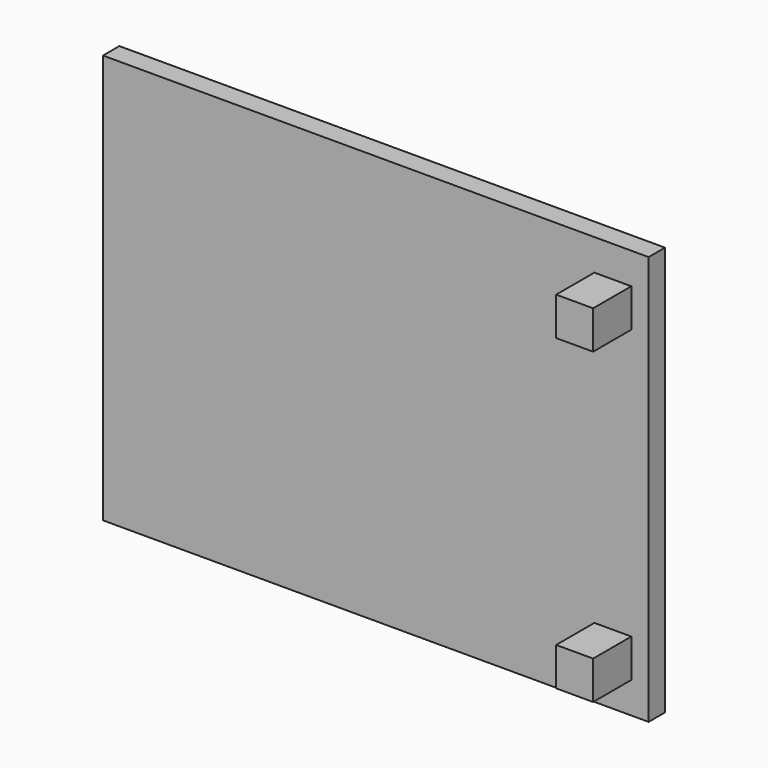
from build123d import *

# Parameters (mm, degrees)
F0_W     = 203.2
F0_H     = 152.4
F1_DEPTH = 7.62
F2_W     = 13.762258
F2_H     = 14.236811
F3_DEPTH = 17.78


with BuildPart() as f1:
    # F0 (on Front) → F1 (new body)
    with BuildSketch(Plane.XZ):
        Rectangle(F0_W, F0_H)
    extrude(amount=F1_DEPTH)

    # F2 (on face) → F3 (join)
    with BuildSketch(Plane.XZ.offset(7.62)):
        with Locations((88.268232, 57.421802)):
            Rectangle(F2_W, F2_H)
        with Locations((88.268232, -57.421802)):
            Rectangle(F2_W, F2_H)
    extrude(amount=F3_DEPTH)


solid = f1.part
